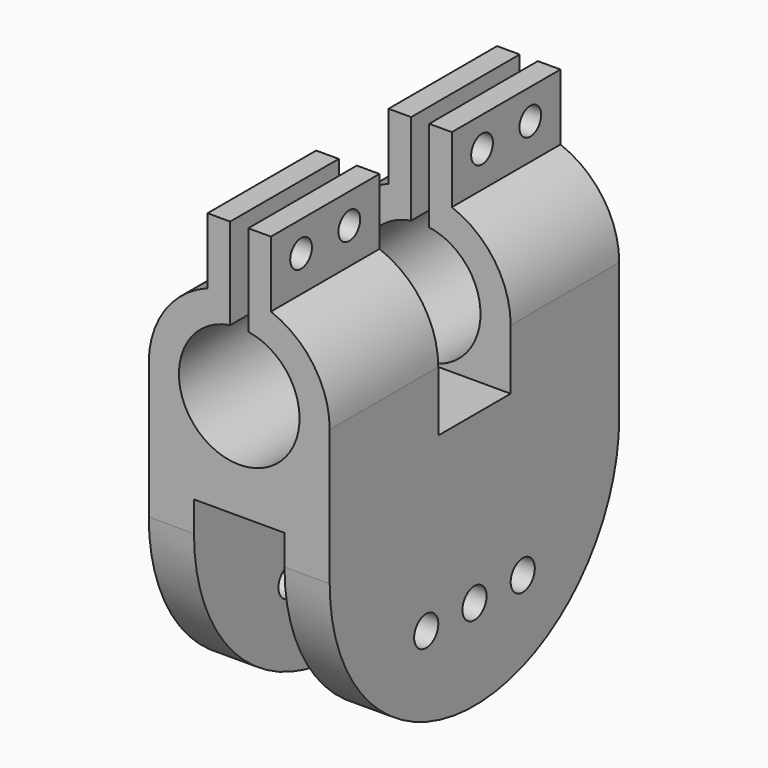
from build123d import *

# Parameters (mm, degrees)
F0_R      = 30
F0_R_2    = 20
F1_DEPTH  = 120
F2_DEPTH  = 120
F4_DEPTH  = 120
F5_W      = 120
F5_H      = 30
F6_DEPTH  = 100
F7_W      = 120
F7_H      = 30
F8_DEPTH  = 50
F10_W     = 7.5
F10_H     = 45
F11_DEPTH = 25
F12_DEPTH = 25
F13_DEPTH = 25
F14_DEPTH = 25
F15_R     = 4.5
F16_DEPTH = 50
F17_R     = 4.5
F18_DEPTH = 50
F19_DEPTH = 50
F20_R     = 4.5
F21_DEPTH = 100
F22_DEPTH = 50
F23_R     = 4.5
F24_DEPTH = 50
F25_DEPTH = 100
F27_W     = 60
F27_H     = 120
F28_DEPTH = 25
F30_DEPTH = 15
F32_DEPTH = 15
F33_R     = 5
F34_DEPTH = 60.001
F35_DEPTH = 60.001
F36_DEPTH = 60.001
F37_W     = 30
F37_H     = 10
F38_DEPTH = 120.001
F39_W     = 8
F39_H     = 20
F40_DEPTH = 45
F41_DEPTH = 45
F42_W     = 8
F42_H     = 20
F43_DEPTH = 45
F44_DEPTH = 45


with BuildPart() as f1:
    # F0 (on Front) → F1 (new body)
    with BuildSketch(Plane.XZ):
        Circle(F0_R)
        Circle(F0_R_2, mode=Mode.SUBTRACT)
    extrude(amount=F1_DEPTH)

    # F0 (on Front) → F2 (join)
    with BuildSketch(Plane.XZ):
        Circle(F0_R)
        Circle(F0_R_2, mode=Mode.SUBTRACT)
    extrude(amount=F2_DEPTH)

    # F3 (on face) → F4 (cut)
    with BuildSketch(Plane.XZ.offset(120)):
        with BuildLine():
            ThreePointArc((3, 29.8496231132), (0, 30), (-3, 29.8496231132))
            Line((-3, 29.8496231132), (-3, 19.7737199333))
            ThreePointArc((-3, 19.7737199333), (0, 20), (3, 19.7737199333))
            Line((3, 19.7737199333), (3, 29.8496231132))
        make_face()
    extrude(amount=-F4_DEPTH, mode=Mode.SUBTRACT)

    # F5 (on Top) → F6 (cut)
    with BuildSketch(Plane.XY):
        with Locations((0, -60)):
            Rectangle(F5_W, F5_H)
    extrude(amount=-F6_DEPTH, mode=Mode.SUBTRACT)

    # F7 (on Top) → F8 (cut, symmetric)
    with BuildSketch(Plane.XY):
        with Locations((0, -60)):
            Rectangle(F7_W, F7_H)
    extrude(amount=F8_DEPTH, both=True, mode=Mode.SUBTRACT)

    # F17 (on face) → F18 (cut, symmetric)
    with BuildSketch(Plane.YZ.offset(10.5)):
        with Locations((-107.5, 40)):
            Circle(F17_R)
    extrude(amount=F18_DEPTH, both=True, mode=Mode.SUBTRACT)

    # F17 (on face) → F19 (cut, symmetric)
    with BuildSketch(Plane.YZ.offset(10.5)):
        with Locations((-87.5, 40)):
            Circle(F17_R)
    extrude(amount=F19_DEPTH, both=True, mode=Mode.SUBTRACT)

    # F23 (on face) → F24 (cut, symmetric)
    with BuildSketch(Plane.YZ.offset(10.5)):
        with Locations((-32.5, 40)):
            Circle(F23_R)
    extrude(amount=F24_DEPTH, both=True, mode=Mode.SUBTRACT)

    # F23 (on face) → F25 (cut)
    with BuildSketch(Plane.YZ.offset(10.5)):
        with Locations((-12.5, 40)):
            Circle(F23_R)
    extrude(amount=-F25_DEPTH, mode=Mode.SUBTRACT)



with BuildPart() as f11:
    # F10 (on offset) → F11 (new body)
    with BuildSketch(Plane.XY.offset(25)):
        with Locations((6.75, -22.5)):
            Rectangle(F10_W, F10_H)
    extrude(amount=F11_DEPTH)


with BuildPart() as f12:
    # F10 (on offset) → F12 (new body)
    with BuildSketch(Plane.XY.offset(25)):
        with Locations((-6.75, -22.5)):
            Rectangle(F10_W, F10_H)
    extrude(amount=F12_DEPTH)


with BuildPart() as f13:
    # F10 (on offset) → F13 (new body)
    with BuildSketch(Plane.XY.offset(25)):
        with Locations((-6.75, -97.5)):
            Rectangle(F10_W, F10_H)
    extrude(amount=F13_DEPTH)


with BuildPart() as f14:
    # F10 (on offset) → F14 (new body)
    with BuildSketch(Plane.XY.offset(25)):
        with Locations((6.75, -97.5)):
            Rectangle(F10_W, F10_H)
    extrude(amount=F14_DEPTH)


with BuildPart() as f16_tool:
    # F15 (on face) → F16 (new body, symmetric)
    with BuildSketch(Plane(origin=(-10.5, 0, 0), x_dir=(0, -1, 0), z_dir=(-1, 0, 0))):
        with Locations((107.5, 40)):
            Circle(F15_R)
        with Locations((87.5, 40)):
            Circle(F15_R)
    extrude(amount=F16_DEPTH, both=True)


with BuildPart() as f13_1:
    add(f13.part)

    # F16: cut by f16_tool
    add(f16_tool.part, mode=Mode.SUBTRACT)


with BuildPart() as f14_1:
    add(f14.part)

    # F16: cut by f16_tool
    add(f16_tool.part, mode=Mode.SUBTRACT)


with BuildPart() as f21_tool:
    # F20 (on face) → F21 (new body)
    with BuildSketch(Plane(origin=(-10.5, 0, 0), x_dir=(0, -1, 0), z_dir=(-1, 0, 0))):
        with Locations((12.5, 40)):
            Circle(F20_R)
    extrude(amount=-F21_DEPTH)


with BuildPart() as f11_1:
    add(f11.part)

    # F21: cut by f21_tool
    add(f21_tool.part, mode=Mode.SUBTRACT)


with BuildPart() as f12_1:
    add(f12.part)

    # F21: cut by f21_tool
    add(f21_tool.part, mode=Mode.SUBTRACT)


with BuildPart() as f22_tool:
    # F20 (on face) → F22 (new body, symmetric)
    with BuildSketch(Plane(origin=(-10.5, 0, 0), x_dir=(0, -1, 0), z_dir=(-1, 0, 0))):
        with Locations((32.5, 40)):
            Circle(F20_R)
    extrude(amount=F22_DEPTH, both=True)


with BuildPart() as f11_2:
    add(f11_1.part)

    # F22: cut by f22_tool
    add(f22_tool.part, mode=Mode.SUBTRACT)


with BuildPart() as f12_2:
    add(f12_1.part)

    # F22: cut by f22_tool
    add(f22_tool.part, mode=Mode.SUBTRACT)


with BuildPart() as f28:
    # F27 (on offset) → F28 (new body)
    with BuildSketch(Plane.XY.offset(-20)):
        with Locations((0, -60)):
            Rectangle(F27_W, F27_H)
    extrude(amount=-F28_DEPTH)

    # F29 (on face) → F30 (join)
    with BuildSketch(Plane.YZ.offset(30)):
        with BuildLine():
            Line((0, -45), (-120, -45))
            ThreePointArc((-120, -45), (-60, -105), (0, -45))
        make_face()
    extrude(amount=-F30_DEPTH)

    # F31 (on face) → F32 (join)
    with BuildSketch(Plane(origin=(-30, 0, 0), x_dir=(0, -1, 0), z_dir=(-1, 0, 0))):
        with BuildLine():
            Line((120, -45), (0, -45))
            ThreePointArc((0, -45), (60, -105), (120, -45))
        make_face()
    extrude(amount=-F32_DEPTH)

    # F33 (on face) → F34 (cut, through all)
    with BuildSketch(Plane(origin=(-30, 0, 0), x_dir=(0, -1, 0), z_dir=(-1, 0, 0))):
        with Locations((40, -75)):
            Circle(F33_R)
    extrude(amount=-F34_DEPTH, mode=Mode.SUBTRACT)

    # F33 (on face) → F35 (cut, through all)
    with BuildSketch(Plane(origin=(-30, 0, 0), x_dir=(0, -1, 0), z_dir=(-1, 0, 0))):
        with Locations((60, -75)):
            Circle(F33_R)
    extrude(amount=-F35_DEPTH, mode=Mode.SUBTRACT)

    # F33 (on face) → F36 (cut, through all)
    with BuildSketch(Plane(origin=(-30, 0, 0), x_dir=(0, -1, 0), z_dir=(-1, 0, 0))):
        with Locations((80, -75)):
            Circle(F33_R)
    extrude(amount=-F36_DEPTH, mode=Mode.SUBTRACT)

    # F37 (on face) → F38 (cut, through all)
    with BuildSketch(Plane(origin=(0, 0, 0), x_dir=(-1, 0, 0), z_dir=(0, 1, 0))):
        with Locations((0, -40)):
            Rectangle(F37_W, F37_H)
    extrude(amount=-F38_DEPTH, mode=Mode.SUBTRACT)


with BuildPart() as f40:
    # F39 (on face) → F40 (new body)
    with BuildSketch(Plane(origin=(0, 0, 0), x_dir=(-1, 0, 0), z_dir=(0, 1, 0))):
        with Locations((-26, -10)):
            Rectangle(F39_W, F39_H)
    extrude(amount=-F40_DEPTH)


with BuildPart() as f41:
    # F39 (on face) → F41 (new body)
    with BuildSketch(Plane(origin=(0, 0, 0), x_dir=(-1, 0, 0), z_dir=(0, 1, 0))):
        with Locations((26, -10)):
            Rectangle(F39_W, F39_H)
    extrude(amount=-F41_DEPTH)


with BuildPart() as f1_1:
    add(f1.part)

    add(f11_2.part)  # F43 merges F11

    add(f12_2.part)  # F43 merges F12

    add(f13_1.part)  # F43 merges F13

    add(f14_1.part)  # F43 merges F14

    add(f28.part)  # F43 merges F28

    add(f40.part)  # F43 merges F40

    add(f41.part)  # F43 merges F41
    # F42 (on face) → F43 (join)
    with BuildSketch(Plane.XZ.offset(120)):
        with Locations((-26, -10)):
            Rectangle(F42_W, F42_H)
    extrude(amount=-F43_DEPTH)

    # F42 (on face) → F44 (join)
    with BuildSketch(Plane.XZ.offset(120)):
        with Locations((26, -10)):
            Rectangle(F42_W, F42_H)
    extrude(amount=-F44_DEPTH)


solid = f1_1.part
